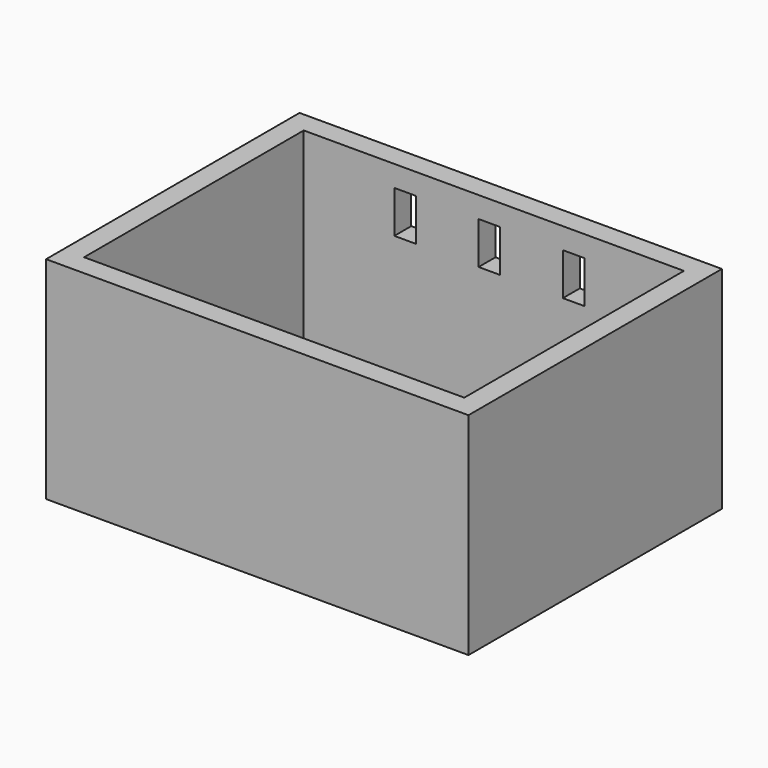
from build123d import *

# Parameters (mm, degrees)
F1_W     = 100
F1_H     = 75
F1_W_2   = 90
F1_H_2   = 65
F2_DEPTH = 5
F3_DEPTH = 50
F5_DEPTH = 5


with BuildPart() as f2:
    # F1 (on face) → F2 (new body)
    with BuildSketch(Plane.XY):
        with Locations((1.0527614504, 8.5603988189)):
            Rectangle(F1_W, F1_H)
        with Locations((1.0527614504, 8.5603988189)):
            Rectangle(F1_W_2, F1_H_2, mode=Mode.SUBTRACT)
        with Locations((1.0527614504, 8.5603988189)):
            Rectangle(F1_W_2, F1_H_2)
    extrude(amount=F2_DEPTH)

    # F1 (on face) → F3 (join)
    with BuildSketch(Plane.XY):
        with Locations((1.0527614504, 8.5603988189)):
            Rectangle(F1_W, F1_H)
        with Locations((1.0527614504, 8.5603988189)):
            Rectangle(F1_W_2, F1_H_2, mode=Mode.SUBTRACT)
    extrude(amount=F3_DEPTH)

    # F4 (on face) → F5 (cut)
    with BuildSketch(Plane(origin=(0, 46.0603988189, 0), x_dir=(-1, 0, 0), z_dir=(0, 1, 0))):
        Polygon((-17.4, 45), (-22.5, 45), (-22.5, 40), (-22.5, 35), (-17.4, 35), (-17.4, 40), align=None)
        Polygon((2.55, 45), (-2.55, 45), (-2.55, 40), (-2.55, 35), (2.55, 35), (2.55, 40), align=None)
        Polygon((22.5, 45), (17.4, 45), (17.4, 40), (17.4, 35), (22.5, 35), align=None)
    extrude(amount=-F5_DEPTH, mode=Mode.SUBTRACT)


solid = f2.part
